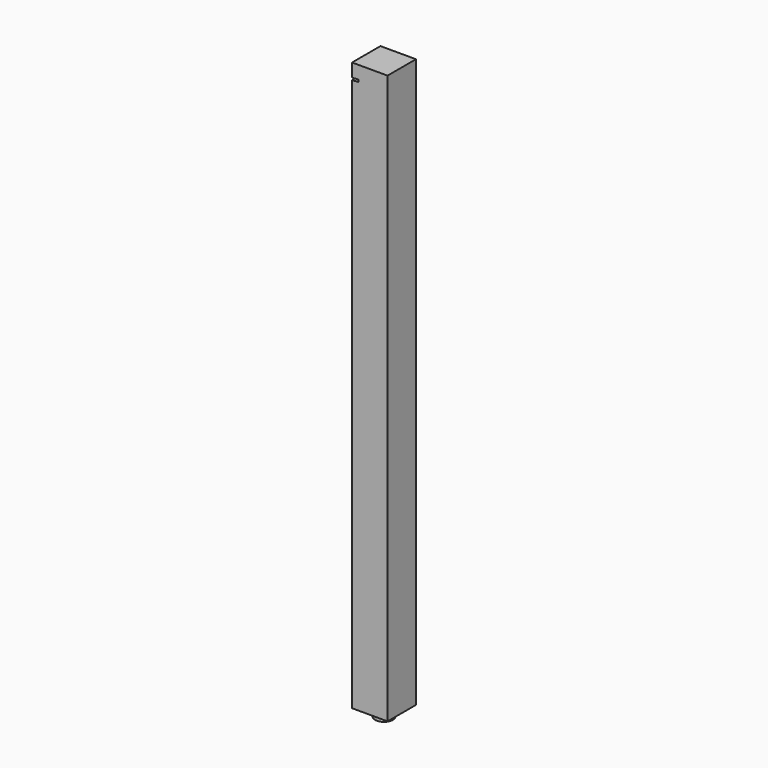
from build123d import *

# Parameters (mm, degrees)
F0_R     = 25.4
F1_DEPTH = 25.4
F3_DEPTH = 1625.6
F5_DEPTH = 101.6


with BuildPart() as f1:
    # F0 (on Top) → F1 (new body)
    with BuildSketch(Plane.XY):
        Circle(F0_R)
    extrude(amount=F1_DEPTH)

    # F2 (on face) → F3 (join)
    with BuildSketch(Plane.XY.offset(25.4)):
        Polygon((-50.8, 50.8), (-50.8, 0), (-50.8, -50.8), (50.8, -50.8), (50.8, 50.8), align=None)
    extrude(amount=F3_DEPTH)

    # F4 (on face) → F5 (cut)
    with BuildSketch(Plane.XZ.offset(50.8)):
        Polygon((-32.12333, 1614.17), (-50.8, 1612.9), (-50.8, 1606.535336), (-31.692529, 1607.83463), align=None)
    extrude(amount=-F5_DEPTH, mode=Mode.SUBTRACT)


solid = f1.part
